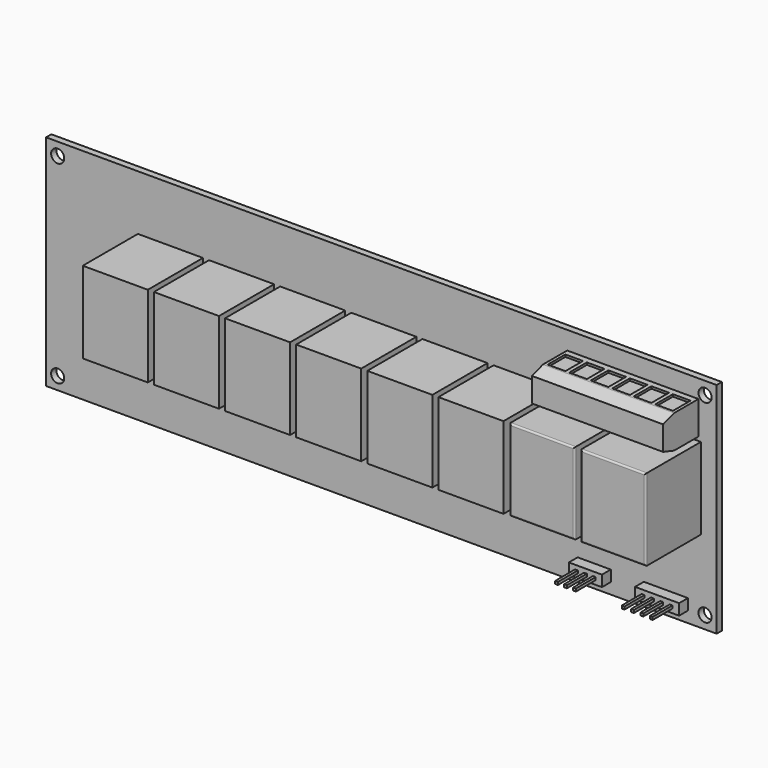
from build123d import *

# Parameters (mm, degrees)
F0_W      = 154.432
F0_H      = 50.419
F0_R      = 1.5113
F1_DEPTH  = 1.524
F2_W      = 14.986
F2_H      = 18.796
F3_DEPTH  = 15.875
F4_R      = 0.381
F5_W      = 30.226
F5_H      = 7.62
F6_DEPTH  = 10.16
F7_SIZE2  = 1.016
F7_SIZE   = 3.175
F8_W      = 4.064
F8_H      = 5.08
F9_DEPTH  = 0.508
F10_W     = 7.62
F10_H     = 2.54
F10_W_2   = 10.16
F11_DEPTH = 2.54
F12_W     = 0.635
F12_H     = 0.635
F13_DEPTH = 5.715


with BuildPart() as f1:
    # F0 (on Front) → F1 (new body)
    with BuildSketch(Plane.XZ):
        Rectangle(F0_W, F0_H)
        with Locations((-74.549, -22.2885)):
            Circle(F0_R, mode=Mode.SUBTRACT)
        with Locations((74.549, -22.2885)):
            Circle(F0_R, mode=Mode.SUBTRACT)
        with Locations((-74.549, 22.2885)):
            Circle(F0_R, mode=Mode.SUBTRACT)
        with Locations((74.549, 22.2885)):
            Circle(F0_R, mode=Mode.SUBTRACT)
    extrude(amount=F1_DEPTH)

    # F2 (on face) → F3 (join)
    with BuildSketch(Plane.XZ.offset(1.524)):
        with Locations((49.7205, 3.1115)):
            Rectangle(F2_W, F2_H)
        with Locations((66.1035, 3.1115)):
            Rectangle(F2_W, F2_H)
        with Locations((33.3375, 3.1115)):
            Rectangle(F2_W, F2_H)
        with Locations((16.9545, 3.1115)):
            Rectangle(F2_W, F2_H)
        with Locations((0.5715, 3.1115)):
            Rectangle(F2_W, F2_H)
        with Locations((-15.8115, 3.1115)):
            Rectangle(F2_W, F2_H)
        with Locations((-32.1945, 3.1115)):
            Rectangle(F2_W, F2_H)
        with Locations((-48.5775, 3.1115)):
            Rectangle(F2_W, F2_H)
    extrude(amount=F3_DEPTH)

    # F4
    f4_edges = [f1.edges().sort_by_distance(p)[0] for p in [
        (42.2275, -17.399, 3.1115),
        (49.7205, -17.399, -6.2865),
        (57.2135, -17.399, 3.1115),
        (49.7205, -17.399, 12.5095),
        (58.6105, -17.399, 3.1115),
        (66.1035, -17.399, -6.2865),
        (73.5965, -17.399, 3.1115),
        (66.1035, -17.399, 12.5095),
    ]]
    fillet(f4_edges, radius=F4_R)

    # F5 (on face) → F6 (join)
    with BuildSketch(Plane.XZ.offset(1.524)):
        with Locations((57.912, 17.2085)):
            Rectangle(F5_W, F5_H)
    extrude(amount=F6_DEPTH)

    # F7
    f7_edges = [f1.edges().sort_by_distance(p)[0] for p in [
        (57.912, -11.684, 21.0185),
        (57.912, -11.684, 13.3985),
    ]]
    chamfer(f7_edges, length=F7_SIZE, length2=F7_SIZE2)

    # F8 (on face) → F9 (cut)
    with BuildSketch(Plane.XY.offset(21.0185)):
        with Locations((45.5295, -5.461)):
            Rectangle(F8_W, F8_H)
        with Locations((50.4825, -5.461)):
            Rectangle(F8_W, F8_H)
        with Locations((55.4355, -5.461)):
            Rectangle(F8_W, F8_H)
        with Locations((60.3885, -5.461)):
            Rectangle(F8_W, F8_H)
        with Locations((65.3415, -5.461)):
            Rectangle(F8_W, F8_H)
        with Locations((70.2945, -5.461)):
            Rectangle(F8_W, F8_H)
    extrude(amount=-F9_DEPTH, mode=Mode.SUBTRACT)

    # F10 (on face) → F11 (join)
    with BuildSketch(Plane.XZ.offset(1.524)):
        with Locations((49.022, -21.3995)):
            Rectangle(F10_W, F10_H)
        with Locations((65.532, -21.3995)):
            Rectangle(F10_W_2, F10_H)
    extrude(amount=F11_DEPTH)

    # F12 (on face) → F13 (join)
    with BuildSketch(Plane.XZ.offset(4.064)):
        with Locations((62.2935, -21.3995)):
            Rectangle(F12_W, F12_H)
        with Locations((64.4525, -21.3995)):
            Rectangle(F12_W, F12_H)
        with Locations((66.6115, -21.3995)):
            Rectangle(F12_W, F12_H)
        with Locations((68.7705, -21.3995)):
            Rectangle(F12_W, F12_H)
        with Locations((51.08575, -21.3995)):
            Rectangle(F12_W, F12_H)
        with Locations((49.022, -21.3995)):
            Rectangle(F12_W, F12_H)
        with Locations((46.95825, -21.3995)):
            Rectangle(F12_W, F12_H)
    extrude(amount=F13_DEPTH)


solid = f1.part
